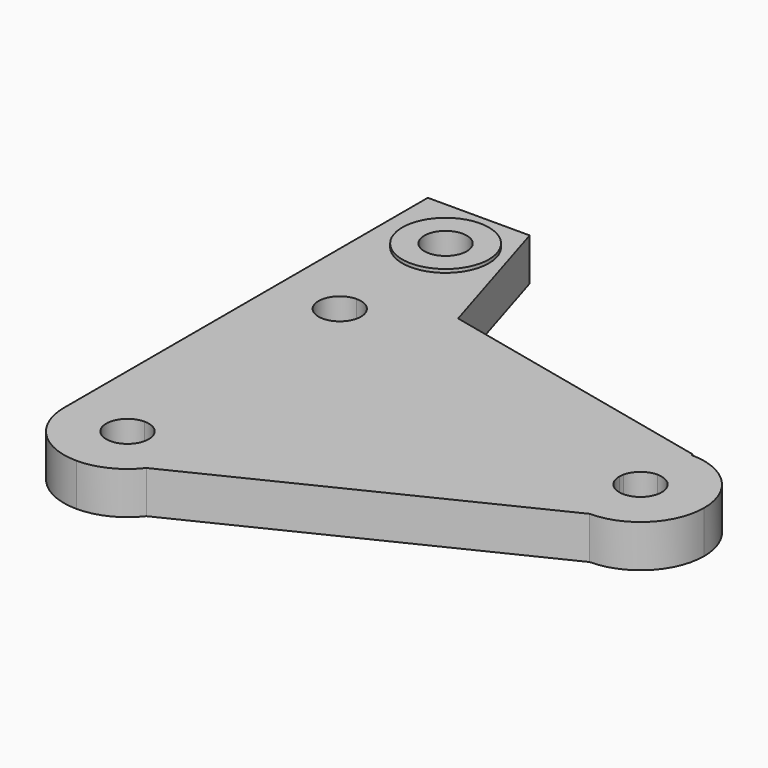
from build123d import *

# Parameters (mm, degrees)
F1_DEPTH = 6.35
F2_R     = 3.175
F3_DEPTH = 12.7
F4_R     = 6.4822420389
F5_DEPTH = 6.35
F6_DEPTH = 19.558
F7_DEPTH = 6.35
F8_R     = 6.4822420389
F8_R_2   = 3.175
F9_DEPTH = 6.35


with BuildPart() as f1:
    # F0 (on Top) → F1 (new body)
    with BuildSketch(Plane.XY):
        with BuildLine():
            Line((0, -17.430102046), (0, 0))
            Line((0, 0), (0, 3.216402))
            ThreePointArc((0, 3.216402), (-6.7351920908, 6.0062099092), (-9.525, 12.741402))
            Line((-9.525, 12.741402), (-9.525, -26.955102046))
            ThreePointArc((-9.525, -26.955102046), (-6.7351920908, -20.2199099552), (0, -17.430102046))
        make_face()
        with BuildLine():
            ThreePointArc((-9.525, 12.741402), (-6.7351920908, 6.0062099092), (0, 3.216402))
            Line((0, 3.216402), (0, 9.566402))
            ThreePointArc((0, 9.566402), (-3.175, 12.741402), (0, 15.916402))
            Line((0, 15.916402), (0, 22.266402))
            ThreePointArc((0, 22.266402), (-6.7351920908, 19.4765940908), (-9.525, 12.741402))
        make_face()
        with BuildLine():
            Line((0, -23.780102046), (0, -17.430102046))
            ThreePointArc((0, -17.430102046), (-6.7351920908, -20.2199099552), (-9.525, -26.955102046))
            ThreePointArc((-9.525, -26.955102046), (-6.7351920908, -33.6902941368), (0, -36.480102046))
            Line((0, -36.480102046), (7.5123847033, -32.8108429103))
            ThreePointArc((7.5123847033, -32.8108429103), (9.007804652, -30.0510801387), (9.525, -26.955102046))
            ThreePointArc((9.525, -26.955102046), (9.2802728088, -24.809837122), (8.5586668568, -22.7748093967))
            Line((8.5586668568, -22.7748093967), (2.8528889523, -25.5616711629))
            ThreePointArc((2.8528889523, -25.5616711629), (3.0934242696, -26.240013738), (3.175, -26.955102046))
            ThreePointArc((3.175, -26.955102046), (-2.2450640303, -29.2001660763), (0, -23.780102046))
        make_face()
        with BuildLine():
            ThreePointArc((9.525, 12.741402), (9.463768469, 11.6631110537), (9.2808611307, 10.5986837096))
            Line((9.2808611307, 10.5986837096), (45.9066000969, 2.1427182904))
            ThreePointArc((45.9066000969, 2.1427182904), (49.2580332078, 7.4543617002), (55.1874612276, 9.525))
            Line((55.1874612276, 9.525), (55.1874612276, 9.7662775009))
            Line((55.1874612276, 9.7662775009), (4.1043156247, 21.3367622748))
            ThreePointArc((4.1043156247, 21.3367622748), (8.0566503997, 17.8223477129), (9.525, 12.741402))
        make_face()
        with BuildLine():
            Line((3.0936203769, 12.0271625699), (9.2808611307, 10.5986837096))
            ThreePointArc((9.2808611307, 10.5986837096), (9.463768469, 11.6631110537), (9.525, 12.741402))
            ThreePointArc((9.525, 12.741402), (8.0566503997, 17.8223477129), (4.1043156247, 21.3367622748))
            Line((4.1043156247, 21.3367622748), (0, 22.266402))
            Line((0, 22.266402), (0, 15.916402))
            ThreePointArc((0, 15.916402), (2.2450640303, 14.9864660303), (3.175, 12.741402))
            ThreePointArc((3.175, 12.741402), (3.1545894897, 12.3819716846), (3.0936203769, 12.0271625699))
        make_face()
        with BuildLine():
            ThreePointArc((55.1874612276, 9.525), (49.2580332078, 7.4543617002), (45.9066000969, 2.1427182904))
            Line((45.9066000969, 2.1427182904), (52.0938408507, 0.7142394301))
            ThreePointArc((52.0938408507, 0.7142394301), (53.210985221, 2.4847872334), (55.1874612276, 3.175))
            Line((55.1874612276, 3.175), (55.1874612276, 9.525))
        make_face()
        with BuildLine():
            ThreePointArc((55.1874612276, -9.525), (50.1422487685, -8.0790752096), (46.6287943708, -4.1802926493))
            Line((46.6287943708, -4.1802926493), (8.5586668568, -22.7748093967))
            ThreePointArc((8.5586668568, -22.7748093967), (9.2802728088, -24.809837122), (9.525, -26.955102046))
            ThreePointArc((9.525, -26.955102046), (9.007804652, -30.0510801387), (7.5123847033, -32.8108429103))
            Line((7.5123847033, -32.8108429103), (55.1874612276, -9.525))
        make_face()
        with BuildLine():
            Line((52.3345722753, -1.3934308831), (46.6287943708, -4.1802926493))
            ThreePointArc((46.6287943708, -4.1802926493), (50.1422487685, -8.0790752096), (55.1874612276, -9.525))
            ThreePointArc((55.1874612276, -9.525), (61.9226533184, -6.7351920908), (64.7124612276, 0))
            ThreePointArc((64.7124612276, 0), (61.9226533184, 6.7351920908), (55.1874612276, 9.525))
            Line((55.1874612276, 9.525), (55.1874612276, 3.175))
            ThreePointArc((55.1874612276, 3.175), (57.4325252579, 2.2450640303), (58.3624612276, 0))
            ThreePointArc((58.3624612276, 0), (55.9025495356, -3.0934242696), (52.3345722753, -1.3934308831))
        make_face()
        with BuildLine():
            ThreePointArc((4.1043156247, 21.3367622748), (2.1041409628, 22.0310852997), (0, 22.266402))
            Line((0, 22.266402), (4.1043156247, 21.3367622748))
        make_face()
        with BuildLine():
            Line((7.5123847033, -32.8108429103), (0, -36.480102046))
            ThreePointArc((0, -36.480102046), (4.1802926493, -35.5137689028), (7.5123847033, -32.8108429103))
        make_face()
        with BuildLine():
            Line((0, 3.216402), (0, 0))
            Line((0, 0), (45.6624612276, 0))
            ThreePointArc((45.6624612276, 0), (45.7236927586, 1.0782909463), (45.9066000969, 2.1427182904))
            Line((45.9066000969, 2.1427182904), (9.2808611307, 10.5986837096))
            ThreePointArc((9.2808611307, 10.5986837096), (5.9294280198, 5.2870402998), (0, 3.216402))
        make_face()
        with BuildLine():
            Line((0, 9.566402), (0, 3.216402))
            ThreePointArc((0, 3.216402), (5.9294280198, 5.2870402998), (9.2808611307, 10.5986837096))
            Line((9.2808611307, 10.5986837096), (3.0936203769, 12.0271625699))
            ThreePointArc((3.0936203769, 12.0271625699), (1.9764760066, 10.2566147666), (0, 9.566402))
        make_face()
        with BuildLine():
            Line((45.6624612276, 0), (0, 0))
            Line((0, 0), (0, -17.430102046))
            ThreePointArc((0, -17.430102046), (5.0452124591, -18.8760268364), (8.5586668568, -22.7748093967))
            Line((8.5586668568, -22.7748093967), (46.6287943708, -4.1802926493))
            ThreePointArc((46.6287943708, -4.1802926493), (45.9071884188, -2.145264924), (45.6624612276, 0))
        make_face()
        with BuildLine():
            ThreePointArc((8.5586668568, -22.7748093967), (5.0452124591, -18.8760268364), (0, -17.430102046))
            Line((0, -17.430102046), (0, -23.780102046))
            ThreePointArc((0, -23.780102046), (1.6817374864, -24.2620769761), (2.8528889523, -25.5616711629))
            Line((2.8528889523, -25.5616711629), (8.5586668568, -22.7748093967))
        make_face()
        with BuildLine():
            Line((52.0124612276, 0), (45.6624612276, 0))
            ThreePointArc((45.6624612276, 0), (45.9071884188, -2.145264924), (46.6287943708, -4.1802926493))
            Line((46.6287943708, -4.1802926493), (52.3345722753, -1.3934308831))
            ThreePointArc((52.3345722753, -1.3934308831), (52.094036958, -0.715088308), (52.0124612276, 0))
        make_face()
        with BuildLine():
            ThreePointArc((45.9066000969, 2.1427182904), (45.7236927586, 1.0782909463), (45.6624612276, 0))
            Line((45.6624612276, 0), (52.0124612276, 0))
            ThreePointArc((52.0124612276, 0), (52.0328717379, 0.3594303154), (52.0938408507, 0.7142394301))
            Line((52.0938408507, 0.7142394301), (45.9066000969, 2.1427182904))
        make_face()
    extrude(amount=F1_DEPTH)

    # F2 (on face) → F3 (join)
    with BuildSketch(Plane.XY.offset(6.35)):
        with BuildLine():
            Line((-9.525, 41.1111302674), (-9.525, 12.741402))
            ThreePointArc((-9.525, 12.741402), (-5.0809457129, 20.7980523997), (4.1043156247, 21.3367622748))
            Line((4.1043156247, 21.3367622748), (12.3195811982, 19.4759801301))
            Line((12.3195811982, 19.4759801301), (5.7150009088, 41.1111302674))
            Line((5.7150009088, 41.1111302674), (-9.525, 41.1111302674))
        make_face()
        with Locations((-0.0769013266, 32.6290909023)):
            Circle(F2_R, mode=Mode.SUBTRACT)
    extrude(amount=-F3_DEPTH)

    # F4 (on face) → F5 (cut)
    with BuildSketch(Plane(origin=(0, 0, -6.35), x_dir=(1, 0, 0), z_dir=(0, 0, -1))):
        with BuildLine():
            Line((-9.525, -41.1111302674), (5.7150009088, -41.1111302674))
            Line((5.7150009088, -41.1111302674), (12.3195811982, -19.4759801301))
            Line((12.3195811982, -19.4759801301), (4.1043156247, -21.3367622748))
            ThreePointArc((4.1043156247, -21.3367622748), (-5.0809457129, -20.7980523997), (-9.525, -12.741402))
            Line((-9.525, -12.741402), (-9.525, -41.1111302674))
        make_face()
        with Locations((-0.0769013266, -32.6290909023)):
            Circle(F4_R, mode=Mode.SUBTRACT)
    extrude(amount=-F5_DEPTH, mode=Mode.SUBTRACT)

    # F6 (add): a face of the model
    f6_faces = [f1.faces().sort_by_distance(p)[0] for p in [
        (-6.3757978733, 32.6290909023, -6.35),
    ]]
    extrude(f6_faces, amount=-F6_DEPTH)

    # F7 (cut): a face of the model
    f7_faces = [f1.faces().sort_by_distance(p)[0] for p in [
        (-6.3757978733, 32.6290909023, -6.35),
    ]]
    extrude(f7_faces, amount=-F7_DEPTH, mode=Mode.SUBTRACT)

    # F8 (on face) → F9 (cut)
    with BuildSketch(Plane.XY.offset(13.208)):
        with Locations((-0.0769013266, 32.6290909023)):
            Circle(F8_R)
        with Locations((-0.0769013266, 32.6290909023)):
            Circle(F8_R_2, mode=Mode.SUBTRACT)
    extrude(amount=-F9_DEPTH, mode=Mode.SUBTRACT)


solid = f1.part
